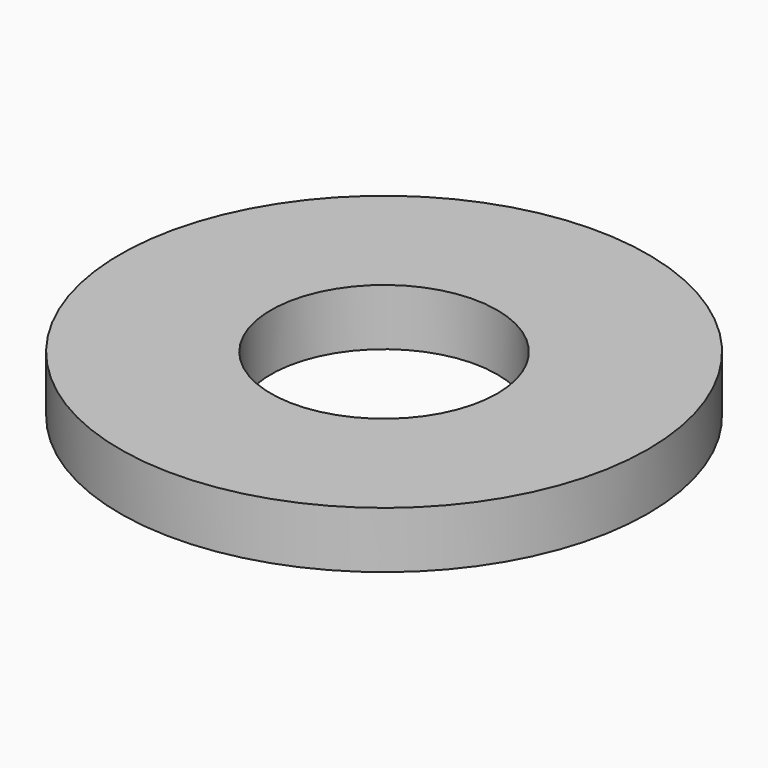
from build123d import *

# Parameters (mm, degrees)
CYLINDER008_R     = 1.5
CYLINDER008_DEPTH = 0.75
CYLINDER007_R     = 3.5
CYLINDER007_DEPTH = 0.75


with BuildPart() as cylinder008:
    # Cylinder008 → Cylinder008 (new body)
    with BuildSketch(Plane(origin=(-12.21, 11.4, 28.95), x_dir=(1, 0, 0), z_dir=(0, 0, 1))):
        Circle(CYLINDER008_R)
    extrude(amount=CYLINDER008_DEPTH)


with BuildPart() as cut008002005:
    # Cylinder007 → Cylinder007 (new body)
    with BuildSketch(Plane(origin=(-12.21, 11.4, 28.95), x_dir=(1, 0, 0), z_dir=(0, 0, 1))):
        Circle(CYLINDER007_R)
    extrude(amount=CYLINDER007_DEPTH)

    # Cut008002005: cut Cylinder008
    add(cylinder008.part, mode=Mode.SUBTRACT)


solid = cut008002005.part
